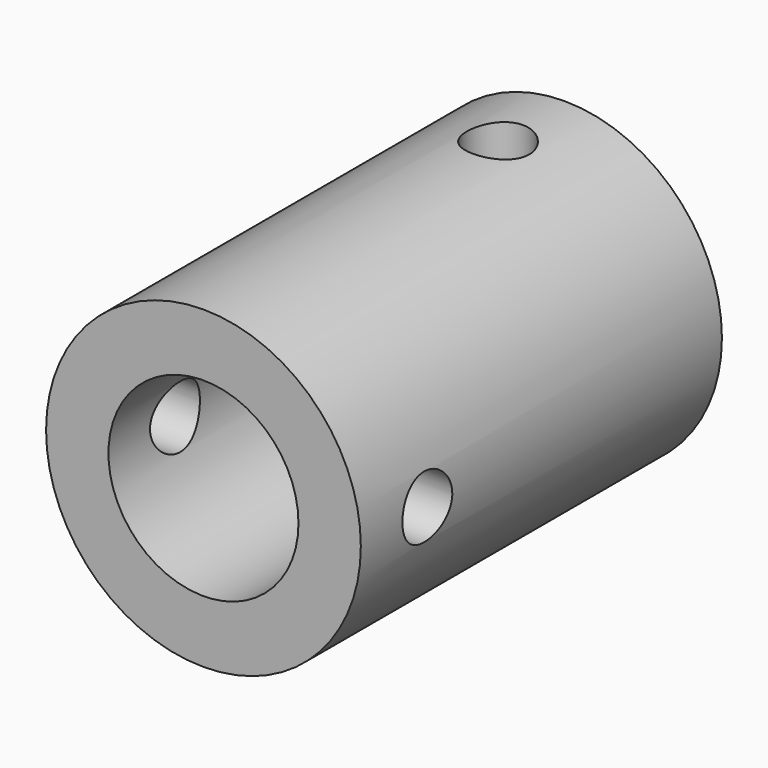
from build123d import *

# Parameters (mm, degrees)
F0_R     = 42.06875
F0_R_2   = 25.4
F1_DEPTH = 120.65
F2_R     = 8.3312
F3_DEPTH = 63.5
F4_R     = 8.3312
F5_DEPTH = 50.8


with BuildPart() as f1:
    # F0 (on Front) → F1 (new body)
    with BuildSketch(Plane.XZ):
        Circle(F0_R)
        Circle(F0_R_2, mode=Mode.SUBTRACT)
    extrude(amount=-F1_DEPTH)

    # F2 (on Right) → F3 (cut, symmetric)
    with BuildSketch(Plane.YZ):
        with Locations((22.225, 0)):
            Circle(F2_R)
    extrude(amount=F3_DEPTH, both=True, mode=Mode.SUBTRACT)

    # F4 (on Top) → F5 (cut, symmetric)
    with BuildSketch(Plane.XY):
        with Locations((0, 98.425)):
            Circle(F4_R)
    extrude(amount=F5_DEPTH, both=True, mode=Mode.SUBTRACT)


solid = f1.part
